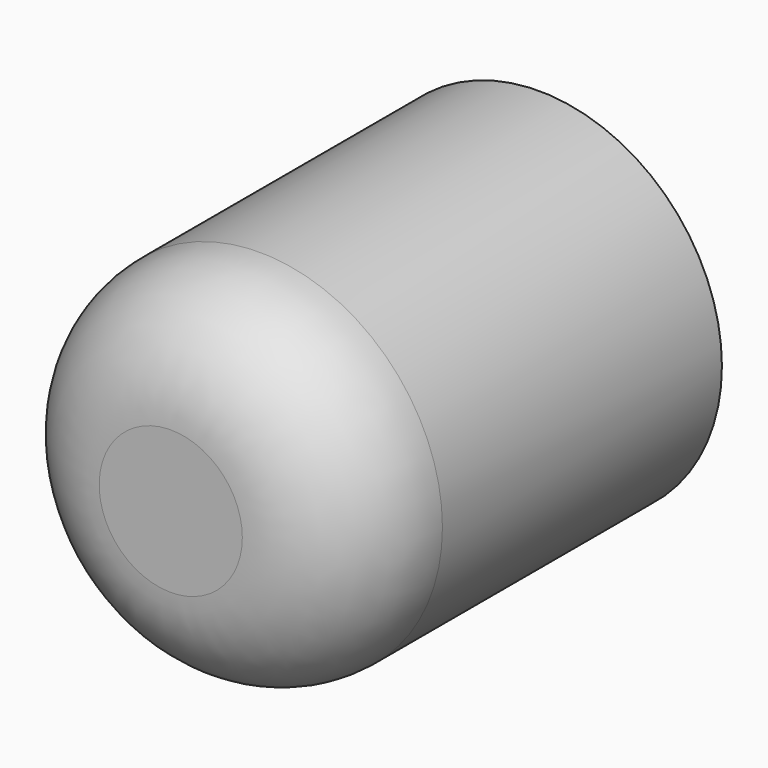
from build123d import *

# Parameters (mm, degrees)
F0_R     = 10.079521
F1_DEPTH = 25.4
F2_R     = 6.132102
F3_T     = -2.54


with BuildPart() as f1:
    # F0 (on Front) → F1 (new body)
    with BuildSketch(Plane.XZ):
        Circle(F0_R)
    extrude(amount=F1_DEPTH)

    # F2
    f2_edges = [f1.edges().sort_by_distance(p)[0] for p in [
        (-10.079521, -25.4, 0),
    ]]
    fillet(f2_edges, radius=F2_R)

    # F3
    f3_openings = [f1.faces().sort_by_distance(p)[0] for p in [
        (0, 0, 0),
    ]]
    offset(amount=F3_T, openings=f3_openings)


solid = f1.part
